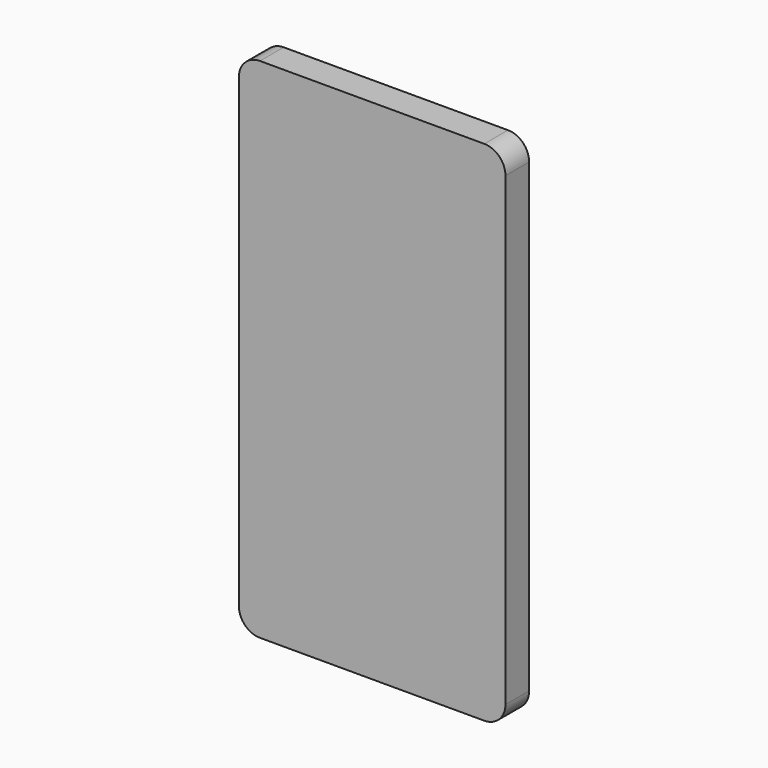
from build123d import *

# Parameters (mm, degrees)
F0_W     = 63
F0_H     = 120
F1_DEPTH = 7
F2_R     = 5
F3_R     = 5


with BuildPart() as f1:
    # F0 (on Front) → F1 (new body)
    with BuildSketch(Plane.XZ):
        with Locations((-31.5, 60)):
            Rectangle(F0_W, F0_H)
    extrude(amount=F1_DEPTH)

    # F2
    f2_edges = [f1.edges().sort_by_distance(p)[0] for p in [
        (-63, -3.5, 120),
    ]]
    fillet(f2_edges, radius=F2_R)

    # F3
    f3_edges = [f1.edges().sort_by_distance(p)[0] for p in [
        (0, -3.5, 120),
        (-63, -3.5, 0),
        (0, -3.5, 0),
    ]]
    fillet(f3_edges, radius=F3_R)


solid = f1.part
